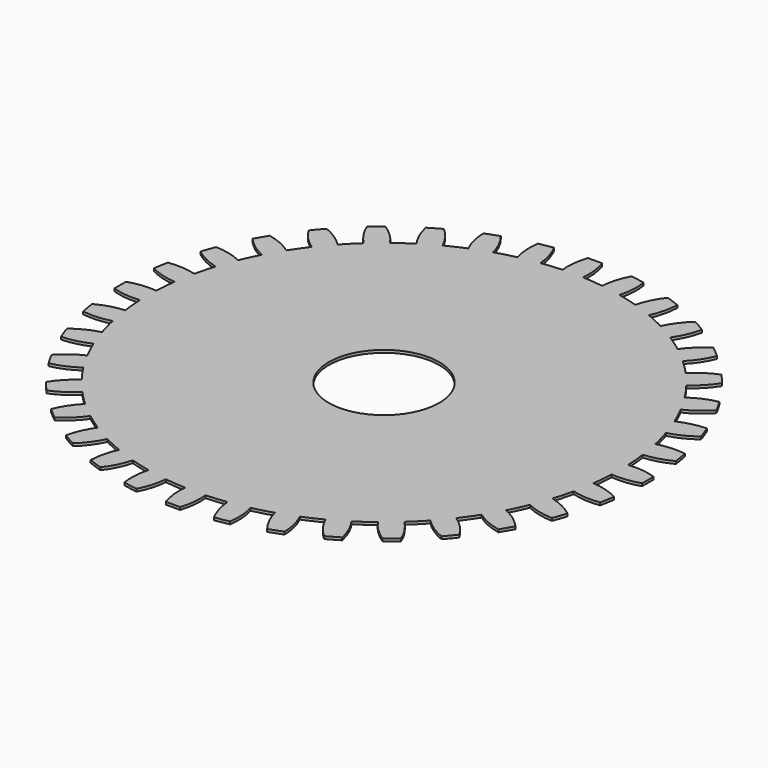
from build123d import *

# Parameters (mm, degrees)
F1_DEPTH = 0.1


with BuildPart() as f1:
    # F0 (on Top) → F1 (new body)
    with BuildSketch(Plane.XY):
        with BuildLine():
            Line((0.784039, 8.961601), (0.183463, 2.09699))
            ThreePointArc((0.183463, 2.09699), (1.551969, 1.422117), (2.105, 0))
            ThreePointArc((2.105, 0), (-1.48846, -1.48846), (0, 2.105))
            Line((0, 2.105), (0, 10.054167))
            ThreePointArc((0, 10.054167), (-0.137088, 10.053232), (-0.274151, 10.050428))
            ThreePointArc((-0.274151, 10.050428), (-0.388648, 9.525009), (-0.392393, 8.987271))
            ThreePointArc((-0.392393, 8.987271), (-0.588356, 8.976573), (-0.784039, 8.961601))
            ThreePointArc((-0.784039, 8.961601), (-0.979348, 8.942365), (-1.174192, 8.918873))
            ThreePointArc((-1.174192, 8.918873), (-1.271257, 9.44779), (-1.475253, 9.945345))
            ThreePointArc((-1.475253, 9.945345), (-1.61072, 9.924306), (-1.745888, 9.901421))
            ThreePointArc((-1.745888, 9.901421), (-1.880731, 9.876696), (-2.015224, 9.850134))
            ThreePointArc((-2.015224, 9.850134), (-2.036744, 9.312814), (-1.947055, 8.782596))
            ThreePointArc((-1.947055, 8.782596), (-2.138183, 8.738031), (-2.328293, 8.689308))
            ThreePointArc((-2.328293, 8.689308), (-2.517295, 8.636448), (-2.705099, 8.579479))
            ThreePointArc((-2.705099, 8.579479), (-2.892535, 9.083506), (-3.179831, 9.538078))
            ThreePointArc((-3.179831, 9.538078), (-3.309587, 9.493835), (-3.438728, 9.447826))
            ThreePointArc((-3.438728, 9.447826), (-3.567229, 9.400061), (-3.695066, 9.350548))
            ThreePointArc((-3.695066, 9.350548), (-3.622954, 8.817655), (-3.442556, 8.311066))
            ThreePointArc((-3.442556, 8.311066), (-3.623042, 8.23399), (-3.801803, 8.152994))
            ThreePointArc((-3.801803, 8.152994), (-3.978755, 8.068118), (-4.153814, 7.979402))
            ThreePointArc((-4.153814, 7.979402), (-4.425925, 8.443223), (-4.787793, 8.841002))
            ThreePointArc((-4.787793, 8.841002), (-4.907894, 8.774898), (-5.027083, 8.707164))
            ThreePointArc((-5.027083, 8.707164), (-5.145338, 8.63781), (-5.262636, 8.566851))
            ThreePointArc((-5.262636, 8.566851), (-5.099083, 8.054575), (-4.833458, 7.587009))
            ThreePointArc((-4.833458, 7.587009), (-4.997817, 7.479762), (-5.159798, 7.368955))
            ThreePointArc((-5.159798, 7.368955), (-5.319323, 7.254641), (-5.476316, 7.136874))
            ThreePointArc((-5.476316, 7.136874), (-5.824836, 7.546398), (-6.250279, 7.875296))
            ThreePointArc((-6.250279, 7.875296), (-6.357077, 7.789341), (-6.462694, 7.701939))
            ThreePointArc((-6.462694, 7.701939), (-6.567109, 7.613104), (-6.670303, 7.522854))
            ThreePointArc((-6.670303, 7.522854), (-6.420279, 7.046762), (-6.077497, 6.632424))
            ThreePointArc((-6.077497, 6.632424), (-6.220736, 6.498266), (-6.361015, 6.361015))
            ThreePointArc((-6.361015, 6.361015), (-6.498266, 6.220736), (-6.632424, 6.077497))
            ThreePointArc((-6.632424, 6.077497), (-7.046762, 6.420279), (-7.522854, 6.670303))
            ThreePointArc((-7.522854, 6.670303), (-7.613104, 6.567109), (-7.701939, 6.462694))
            ThreePointArc((-7.701939, 6.462694), (-7.789341, 6.357077), (-7.875296, 6.250279))
            ThreePointArc((-7.875296, 6.250279), (-7.546398, 5.824836), (-7.136874, 5.476316))
            ThreePointArc((-7.136874, 5.476316), (-7.254641, 5.319323), (-7.368955, 5.159798))
            ThreePointArc((-7.368955, 5.159798), (-7.479762, 4.997817), (-7.587009, 4.833458))
            ThreePointArc((-7.587009, 4.833458), (-8.054575, 5.099083), (-8.566851, 5.262636))
            ThreePointArc((-8.566851, 5.262636), (-8.63781, 5.145338), (-8.707164, 5.027083))
            ThreePointArc((-8.707164, 5.027083), (-8.774898, 4.907894), (-8.841002, 4.787793))
            ThreePointArc((-8.841002, 4.787793), (-8.443223, 4.425925), (-7.979402, 4.153814))
            ThreePointArc((-7.979402, 4.153814), (-8.068118, 3.978755), (-8.152994, 3.801803))
            ThreePointArc((-8.152994, 3.801803), (-8.23399, 3.623042), (-8.311066, 3.442556))
            ThreePointArc((-8.311066, 3.442556), (-8.817655, 3.622954), (-9.350548, 3.695066))
            ThreePointArc((-9.350548, 3.695066), (-9.400061, 3.567229), (-9.447826, 3.438728))
            ThreePointArc((-9.447826, 3.438728), (-9.493835, 3.309587), (-9.538078, 3.179831))
            ThreePointArc((-9.538078, 3.179831), (-9.083506, 2.892535), (-8.579479, 2.705099))
            ThreePointArc((-8.579479, 2.705099), (-8.636448, 2.517295), (-8.689308, 2.328293))
            ThreePointArc((-8.689308, 2.328293), (-8.738031, 2.138183), (-8.782596, 1.947055))
            ThreePointArc((-8.782596, 1.947055), (-9.312814, 2.036744), (-9.850134, 2.015224))
            ThreePointArc((-9.850134, 2.015224), (-9.876696, 1.880731), (-9.901421, 1.745888))
            ThreePointArc((-9.901421, 1.745888), (-9.924306, 1.61072), (-9.945345, 1.475253))
            ThreePointArc((-9.945345, 1.475253), (-9.44779, 1.271257), (-8.918873, 1.174192))
            ThreePointArc((-8.918873, 1.174192), (-8.942365, 0.979348), (-8.961601, 0.784039))
            ThreePointArc((-8.961601, 0.784039), (-8.976573, 0.588356), (-8.987271, 0.392393))
            ThreePointArc((-8.987271, 0.392393), (-9.525009, 0.388648), (-10.050428, 0.274151))
            ThreePointArc((-10.050428, 0.274151), (-10.053232, 0.137088), (-10.054167, 0))
            ThreePointArc((-10.054167, 0), (-10.053232, -0.137088), (-10.050428, -0.274151))
            ThreePointArc((-10.050428, -0.274151), (-9.525009, -0.388648), (-8.987271, -0.392393))
            ThreePointArc((-8.987271, -0.392393), (-8.976573, -0.588356), (-8.961601, -0.784039))
            ThreePointArc((-8.961601, -0.784039), (-8.942365, -0.979348), (-8.918873, -1.174192))
            ThreePointArc((-8.918873, -1.174192), (-9.44779, -1.271257), (-9.945345, -1.475253))
            ThreePointArc((-9.945345, -1.475253), (-9.924306, -1.61072), (-9.901421, -1.745888))
            ThreePointArc((-9.901421, -1.745888), (-9.876696, -1.880731), (-9.850134, -2.015224))
            ThreePointArc((-9.850134, -2.015224), (-9.312814, -2.036744), (-8.782596, -1.947055))
            ThreePointArc((-8.782596, -1.947055), (-8.738031, -2.138183), (-8.689308, -2.328293))
            ThreePointArc((-8.689308, -2.328293), (-8.636448, -2.517295), (-8.579479, -2.705099))
            ThreePointArc((-8.579479, -2.705099), (-9.083506, -2.892535), (-9.538078, -3.179831))
            ThreePointArc((-9.538078, -3.179831), (-9.493835, -3.309587), (-9.447826, -3.438728))
            ThreePointArc((-9.447826, -3.438728), (-9.400061, -3.567229), (-9.350548, -3.695066))
            ThreePointArc((-9.350548, -3.695066), (-8.817655, -3.622954), (-8.311066, -3.442556))
            ThreePointArc((-8.311066, -3.442556), (-8.23399, -3.623042), (-8.152994, -3.801803))
            ThreePointArc((-8.152994, -3.801803), (-8.068118, -3.978755), (-7.979402, -4.153814))
            ThreePointArc((-7.979402, -4.153814), (-8.443223, -4.425925), (-8.841002, -4.787793))
            ThreePointArc((-8.841002, -4.787793), (-8.774898, -4.907894), (-8.707164, -5.027083))
            ThreePointArc((-8.707164, -5.027083), (-8.63781, -5.145338), (-8.566851, -5.262636))
            ThreePointArc((-8.566851, -5.262636), (-8.054575, -5.099083), (-7.587009, -4.833458))
            ThreePointArc((-7.587009, -4.833458), (-7.479762, -4.997817), (-7.368955, -5.159798))
            ThreePointArc((-7.368955, -5.159798), (-7.254641, -5.319323), (-7.136874, -5.476316))
            ThreePointArc((-7.136874, -5.476316), (-7.546398, -5.824836), (-7.875296, -6.250279))
            ThreePointArc((-7.875296, -6.250279), (-7.789341, -6.357077), (-7.701939, -6.462694))
            ThreePointArc((-7.701939, -6.462694), (-7.613104, -6.567109), (-7.522854, -6.670303))
            ThreePointArc((-7.522854, -6.670303), (-7.046762, -6.420279), (-6.632424, -6.077497))
            ThreePointArc((-6.632424, -6.077497), (-6.498266, -6.220736), (-6.361015, -6.361015))
            ThreePointArc((-6.361015, -6.361015), (-6.220736, -6.498266), (-6.077497, -6.632424))
            ThreePointArc((-6.077497, -6.632424), (-6.420279, -7.046762), (-6.670303, -7.522854))
            ThreePointArc((-6.670303, -7.522854), (-6.567109, -7.613104), (-6.462694, -7.701939))
            ThreePointArc((-6.462694, -7.701939), (-6.357077, -7.789341), (-6.250279, -7.875296))
            ThreePointArc((-6.250279, -7.875296), (-5.824836, -7.546398), (-5.476316, -7.136874))
            ThreePointArc((-5.476316, -7.136874), (-5.319323, -7.254641), (-5.159798, -7.368955))
            ThreePointArc((-5.159798, -7.368955), (-4.997817, -7.479762), (-4.833458, -7.587009))
            ThreePointArc((-4.833458, -7.587009), (-5.099083, -8.054575), (-5.262636, -8.566851))
            ThreePointArc((-5.262636, -8.566851), (-5.145338, -8.63781), (-5.027083, -8.707164))
            ThreePointArc((-5.027083, -8.707164), (-4.907894, -8.774898), (-4.787793, -8.841002))
            ThreePointArc((-4.787793, -8.841002), (-4.425925, -8.443223), (-4.153814, -7.979402))
            ThreePointArc((-4.153814, -7.979402), (-3.978755, -8.068118), (-3.801803, -8.152994))
            ThreePointArc((-3.801803, -8.152994), (-3.623042, -8.23399), (-3.442556, -8.311066))
            ThreePointArc((-3.442556, -8.311066), (-3.622954, -8.817655), (-3.695066, -9.350548))
            ThreePointArc((-3.695066, -9.350548), (-3.567229, -9.400061), (-3.438728, -9.447826))
            ThreePointArc((-3.438728, -9.447826), (-3.309587, -9.493835), (-3.179831, -9.538078))
            ThreePointArc((-3.179831, -9.538078), (-2.892535, -9.083506), (-2.705099, -8.579479))
            ThreePointArc((-2.705099, -8.579479), (-2.517295, -8.636448), (-2.328293, -8.689308))
            ThreePointArc((-2.328293, -8.689308), (-2.138183, -8.738031), (-1.947055, -8.782596))
            ThreePointArc((-1.947055, -8.782596), (-2.036744, -9.312814), (-2.015224, -9.850134))
            ThreePointArc((-2.015224, -9.850134), (-1.880731, -9.876696), (-1.745888, -9.901421))
            ThreePointArc((-1.745888, -9.901421), (-1.61072, -9.924306), (-1.475253, -9.945345))
            ThreePointArc((-1.475253, -9.945345), (-1.271257, -9.44779), (-1.174192, -8.918873))
            ThreePointArc((-1.174192, -8.918873), (-0.979348, -8.942365), (-0.784039, -8.961601))
            ThreePointArc((-0.784039, -8.961601), (-0.588356, -8.976573), (-0.392393, -8.987271))
            ThreePointArc((-0.392393, -8.987271), (-0.388648, -9.525009), (-0.274151, -10.050428))
            ThreePointArc((-0.274151, -10.050428), (-0.137088, -10.053232), (0, -10.054167))
            ThreePointArc((0, -10.054167), (0.137088, -10.053232), (0.274151, -10.050428))
            ThreePointArc((0.274151, -10.050428), (0.388648, -9.525009), (0.392393, -8.987271))
            ThreePointArc((0.392393, -8.987271), (0.588356, -8.976573), (0.784039, -8.961601))
            ThreePointArc((0.784039, -8.961601), (0.979348, -8.942365), (1.174192, -8.918873))
            ThreePointArc((1.174192, -8.918873), (1.271257, -9.44779), (1.475253, -9.945345))
            ThreePointArc((1.475253, -9.945345), (1.61072, -9.924306), (1.745888, -9.901421))
            ThreePointArc((1.745888, -9.901421), (1.880731, -9.876696), (2.015224, -9.850134))
            ThreePointArc((2.015224, -9.850134), (2.036744, -9.312814), (1.947055, -8.782596))
            ThreePointArc((1.947055, -8.782596), (2.138183, -8.738031), (2.328293, -8.689308))
            ThreePointArc((2.328293, -8.689308), (2.517295, -8.636448), (2.705099, -8.579479))
            ThreePointArc((2.705099, -8.579479), (2.892535, -9.083506), (3.179831, -9.538078))
            ThreePointArc((3.179831, -9.538078), (3.309587, -9.493835), (3.438728, -9.447826))
            ThreePointArc((3.438728, -9.447826), (3.567229, -9.400061), (3.695066, -9.350548))
            ThreePointArc((3.695066, -9.350548), (3.622954, -8.817655), (3.442556, -8.311066))
            ThreePointArc((3.442556, -8.311066), (3.623042, -8.23399), (3.801803, -8.152994))
            ThreePointArc((3.801803, -8.152994), (3.978755, -8.068118), (4.153814, -7.979402))
            ThreePointArc((4.153814, -7.979402), (4.425925, -8.443223), (4.787793, -8.841002))
            ThreePointArc((4.787793, -8.841002), (4.907894, -8.774898), (5.027083, -8.707164))
            ThreePointArc((5.027083, -8.707164), (5.145338, -8.63781), (5.262636, -8.566851))
            ThreePointArc((5.262636, -8.566851), (5.099083, -8.054575), (4.833458, -7.587009))
            ThreePointArc((4.833458, -7.587009), (4.997817, -7.479762), (5.159798, -7.368955))
            ThreePointArc((5.159798, -7.368955), (5.319323, -7.254641), (5.476316, -7.136874))
            ThreePointArc((5.476316, -7.136874), (5.824836, -7.546398), (6.250279, -7.875296))
            ThreePointArc((6.250279, -7.875296), (6.357077, -7.789341), (6.462694, -7.701939))
            ThreePointArc((6.462694, -7.701939), (6.567109, -7.613104), (6.670303, -7.522854))
            ThreePointArc((6.670303, -7.522854), (6.420279, -7.046762), (6.077497, -6.632424))
            ThreePointArc((6.077497, -6.632424), (6.220736, -6.498266), (6.361015, -6.361015))
            ThreePointArc((6.361015, -6.361015), (6.498266, -6.220736), (6.632424, -6.077497))
            ThreePointArc((6.632424, -6.077497), (7.046762, -6.420279), (7.522854, -6.670303))
            ThreePointArc((7.522854, -6.670303), (7.613104, -6.567109), (7.701939, -6.462694))
            ThreePointArc((7.701939, -6.462694), (7.789341, -6.357077), (7.875296, -6.250279))
            ThreePointArc((7.875296, -6.250279), (7.546398, -5.824836), (7.136874, -5.476316))
            ThreePointArc((7.136874, -5.476316), (7.254641, -5.319323), (7.368955, -5.159798))
            ThreePointArc((7.368955, -5.159798), (7.479762, -4.997817), (7.587009, -4.833458))
            ThreePointArc((7.587009, -4.833458), (8.054575, -5.099083), (8.566851, -5.262636))
            ThreePointArc((8.566851, -5.262636), (8.63781, -5.145338), (8.707164, -5.027083))
            ThreePointArc((8.707164, -5.027083), (8.774898, -4.907894), (8.841002, -4.787793))
            ThreePointArc((8.841002, -4.787793), (8.443223, -4.425925), (7.979402, -4.153814))
            ThreePointArc((7.979402, -4.153814), (8.068118, -3.978755), (8.152994, -3.801803))
            ThreePointArc((8.152994, -3.801803), (8.23399, -3.623042), (8.311066, -3.442556))
            ThreePointArc((8.311066, -3.442556), (8.817655, -3.622954), (9.350548, -3.695066))
            ThreePointArc((9.350548, -3.695066), (9.400061, -3.567229), (9.447826, -3.438728))
            ThreePointArc((9.447826, -3.438728), (9.493835, -3.309587), (9.538078, -3.179831))
            ThreePointArc((9.538078, -3.179831), (9.083506, -2.892535), (8.579479, -2.705099))
            ThreePointArc((8.579479, -2.705099), (8.636448, -2.517295), (8.689308, -2.328293))
            ThreePointArc((8.689308, -2.328293), (8.738031, -2.138183), (8.782596, -1.947055))
            ThreePointArc((8.782596, -1.947055), (9.312814, -2.036744), (9.850134, -2.015224))
            ThreePointArc((9.850134, -2.015224), (9.876696, -1.880731), (9.901421, -1.745888))
            ThreePointArc((9.901421, -1.745888), (9.924306, -1.61072), (9.945345, -1.475253))
            ThreePointArc((9.945345, -1.475253), (9.44779, -1.271257), (8.918873, -1.174192))
            ThreePointArc((8.918873, -1.174192), (8.942365, -0.979348), (8.961601, -0.784039))
            ThreePointArc((8.961601, -0.784039), (8.976573, -0.588356), (8.987271, -0.392393))
            ThreePointArc((8.987271, -0.392393), (9.525009, -0.388648), (10.050428, -0.274151))
            ThreePointArc((10.050428, -0.274151), (10.053232, -0.137088), (10.054167, 0))
            ThreePointArc((10.054167, 0), (10.053232, 0.137088), (10.050428, 0.274151))
            ThreePointArc((10.050428, 0.274151), (9.525009, 0.388648), (8.987271, 0.392393))
            ThreePointArc((8.987271, 0.392393), (8.976573, 0.588356), (8.961601, 0.784039))
            ThreePointArc((8.961601, 0.784039), (8.942365, 0.979348), (8.918873, 1.174192))
            ThreePointArc((8.918873, 1.174192), (9.44779, 1.271257), (9.945345, 1.475253))
            ThreePointArc((9.945345, 1.475253), (9.924306, 1.61072), (9.901421, 1.745888))
            ThreePointArc((9.901421, 1.745888), (9.876696, 1.880731), (9.850134, 2.015224))
            ThreePointArc((9.850134, 2.015224), (9.312814, 2.036744), (8.782596, 1.947055))
            ThreePointArc((8.782596, 1.947055), (8.738031, 2.138183), (8.689308, 2.328293))
            ThreePointArc((8.689308, 2.328293), (8.636448, 2.517295), (8.579479, 2.705099))
            ThreePointArc((8.579479, 2.705099), (9.083506, 2.892535), (9.538078, 3.179831))
            ThreePointArc((9.538078, 3.179831), (9.493835, 3.309587), (9.447826, 3.438728))
            ThreePointArc((9.447826, 3.438728), (9.400061, 3.567229), (9.350548, 3.695066))
            ThreePointArc((9.350548, 3.695066), (8.817655, 3.622954), (8.311066, 3.442556))
            ThreePointArc((8.311066, 3.442556), (8.23399, 3.623042), (8.152994, 3.801803))
            ThreePointArc((8.152994, 3.801803), (8.068118, 3.978755), (7.979402, 4.153814))
            ThreePointArc((7.979402, 4.153814), (8.443223, 4.425925), (8.841002, 4.787793))
            ThreePointArc((8.841002, 4.787793), (8.774898, 4.907894), (8.707164, 5.027083))
            ThreePointArc((8.707164, 5.027083), (8.63781, 5.145338), (8.566851, 5.262636))
            ThreePointArc((8.566851, 5.262636), (8.054575, 5.099083), (7.587009, 4.833458))
            ThreePointArc((7.587009, 4.833458), (7.479762, 4.997817), (7.368955, 5.159798))
            ThreePointArc((7.368955, 5.159798), (7.254641, 5.319323), (7.136874, 5.476316))
            ThreePointArc((7.136874, 5.476316), (7.546398, 5.824836), (7.875296, 6.250279))
            ThreePointArc((7.875296, 6.250279), (7.789341, 6.357077), (7.701939, 6.462694))
            ThreePointArc((7.701939, 6.462694), (7.613104, 6.567109), (7.522854, 6.670303))
            ThreePointArc((7.522854, 6.670303), (7.046762, 6.420279), (6.632424, 6.077497))
            ThreePointArc((6.632424, 6.077497), (6.498266, 6.220736), (6.361015, 6.361015))
            ThreePointArc((6.361015, 6.361015), (6.220736, 6.498266), (6.077497, 6.632424))
            ThreePointArc((6.077497, 6.632424), (6.420279, 7.046762), (6.670303, 7.522854))
            ThreePointArc((6.670303, 7.522854), (6.567109, 7.613104), (6.462694, 7.701939))
            ThreePointArc((6.462694, 7.701939), (6.357077, 7.789341), (6.250279, 7.875296))
            ThreePointArc((6.250279, 7.875296), (5.824836, 7.546398), (5.476316, 7.136874))
            ThreePointArc((5.476316, 7.136874), (5.319323, 7.254641), (5.159798, 7.368955))
            ThreePointArc((5.159798, 7.368955), (4.997817, 7.479762), (4.833458, 7.587009))
            ThreePointArc((4.833458, 7.587009), (5.099083, 8.054575), (5.262636, 8.566851))
            ThreePointArc((5.262636, 8.566851), (5.145338, 8.63781), (5.027083, 8.707164))
            ThreePointArc((5.027083, 8.707164), (4.907894, 8.774898), (4.787793, 8.841002))
            ThreePointArc((4.787793, 8.841002), (4.425925, 8.443223), (4.153814, 7.979402))
            ThreePointArc((4.153814, 7.979402), (3.978755, 8.068118), (3.801803, 8.152994))
            ThreePointArc((3.801803, 8.152994), (3.623042, 8.23399), (3.442556, 8.311066))
            ThreePointArc((3.442556, 8.311066), (3.622954, 8.817655), (3.695066, 9.350548))
            ThreePointArc((3.695066, 9.350548), (3.567229, 9.400061), (3.438728, 9.447826))
            ThreePointArc((3.438728, 9.447826), (3.309587, 9.493835), (3.179831, 9.538078))
            ThreePointArc((3.179831, 9.538078), (2.892535, 9.083506), (2.705099, 8.579479))
            ThreePointArc((2.705099, 8.579479), (2.517295, 8.636448), (2.328293, 8.689308))
            ThreePointArc((2.328293, 8.689308), (2.138183, 8.738031), (1.947055, 8.782596))
            ThreePointArc((1.947055, 8.782596), (2.036744, 9.312814), (2.015224, 9.850134))
            ThreePointArc((2.015224, 9.850134), (1.880731, 9.876696), (1.745888, 9.901421))
            ThreePointArc((1.745888, 9.901421), (1.61072, 9.924306), (1.475253, 9.945345))
            ThreePointArc((1.475253, 9.945345), (1.271257, 9.44779), (1.174192, 8.918873))
            ThreePointArc((1.174192, 8.918873), (0.979348, 8.942365), (0.784039, 8.961601))
        make_face()
        with BuildLine():
            ThreePointArc((0, 2.105), (0.091819, 2.102997), (0.183463, 2.09699))
            Line((0.183463, 2.09699), (0.784039, 8.961601))
            ThreePointArc((0.784039, 8.961601), (0.588356, 8.976573), (0.392393, 8.987271))
            ThreePointArc((0.392393, 8.987271), (0.388648, 9.525009), (0.274151, 10.050428))
            ThreePointArc((0.274151, 10.050428), (0.137088, 10.053232), (0, 10.054167))
            Line((0, 10.054167), (0, 2.105))
        make_face()
    extrude(amount=F1_DEPTH)


solid = f1.part
